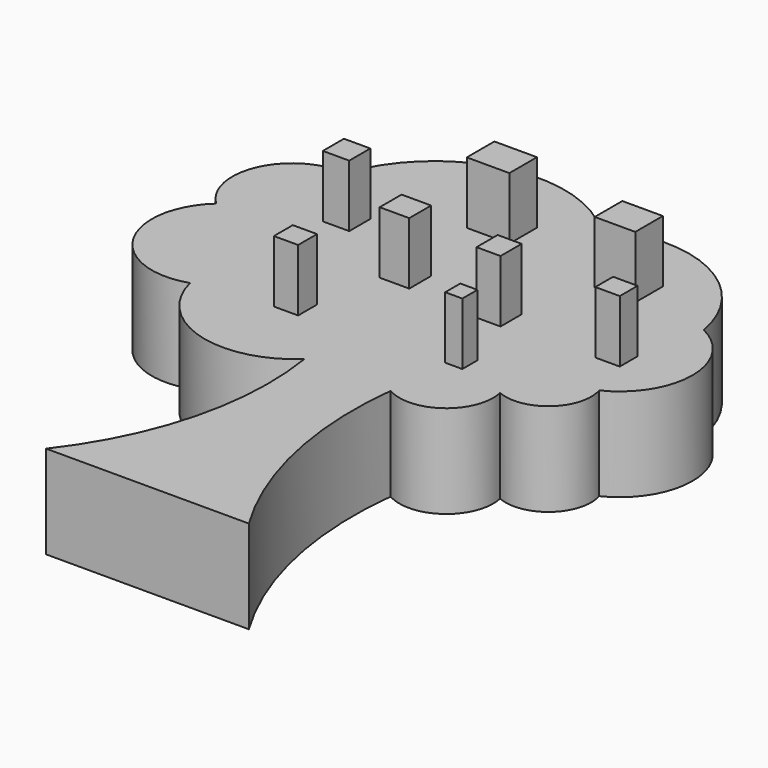
from build123d import *

# Parameters (mm, degrees)
F1_DEPTH = 19.05
F2_W     = 4.956221
F2_H     = 4.832608
F2_W_2   = 6.044237
F2_H_2   = 5.597412
F2_W_3   = 4.906744
F2_H_3   = 5.397417
F2_W_4   = 8.298278
F2_H_4   = 7.053539
F2_W_5   = 8.713215
F2_W_6   = 5.397439
F2_H_5   = 5.397424
F2_W_7   = 3.502958
F2_H_6   = 3.859587
F2_W_8   = 5.006534
F2_H_7   = 4.553236
F3_DEPTH = 12.7


with BuildPart() as f1:
    # F0 (on Top) → F1 (new body)
    with BuildSketch(Plane.XY):
        with BuildLine():
            ThreePointArc((-8.71323, -20.953164), (-9.969081, -47.283156), (-21.57557, -70.950329))
            Line((-21.57557, -70.950329), (19.915849, -70.950329))
            ThreePointArc((19.915849, -70.950329), (10.252818, -46.867793), (8.920625, -20.953164))
            ThreePointArc((8.920625, -20.953164), (19.332917, -20.334627), (23.027718, -10.580301))
            ThreePointArc((23.027718, -10.580301), (32.298513, -9.043512), (34.852773, 0))
            ThreePointArc((34.852773, 0), (43.232597, 13.380993), (34.852773, 26.761986))
            ThreePointArc((34.852773, 26.761986), (21.73884, 44.102992), (0, 43.773465))
            ThreePointArc((0, 43.773465), (-24.771472, 50.65636), (-43.830308, 33.40061))
            ThreePointArc((-43.830308, 33.40061), (-56.08557, 26.187958), (-53.316519, 12.239978))
            ThreePointArc((-53.316519, 12.239978), (-56.12724, -5.430092), (-39.416879, -11.82504))
            ThreePointArc((-39.416879, -11.82504), (-26.680312, -25.185865), (-8.71323, -20.953164))
        make_face()
    extrude(amount=F1_DEPTH)

    # F2 (on face) → F3 (join)
    with BuildSketch(Plane.XY.offset(19.05)):
        with Locations((-21.390158, -7.391732)):
            Rectangle(F2_W, F2_H)
        with Locations((-13.875554, 11.341883)):
            Rectangle(F2_W_2, F2_H_2)
        with Locations((6.275192, 10.112039)):
            Rectangle(F2_W_3, F2_H_3)
        with Locations((16.181633, 30.911125)):
            Rectangle(F2_W_4, F2_H_4)
        with Locations((-12.447461, 34.230441)):
            Rectangle(F2_W_5, F2_H_4)
        with Locations((-33.469454, 20.78421)):
            Rectangle(F2_W_6, F2_H_5)
        with Locations((11.407079, -5.958605)):
            Rectangle(F2_W_7, F2_H_6)
        with Locations((29.765008, 10.771705)):
            Rectangle(F2_W_8, F2_H_7)
    extrude(amount=F3_DEPTH)


solid = f1.part
